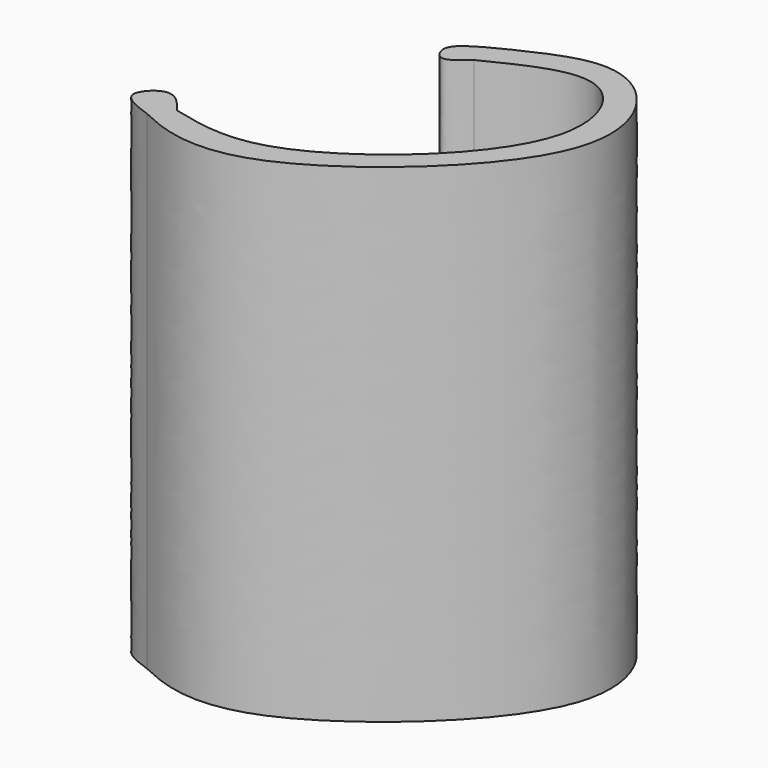
from build123d import *

# Parameters (mm, degrees)
F1_DEPTH = 25.2


with BuildPart() as f1:
    # F0 (on Top) → F1 (new body)
    with BuildSketch(Plane.XY):
        with BuildLine():
            add(Edge.make_bspline(
                [(0, 0), (1.5421028566, -0.3786825745), (5.3762259347, -1.3201992779), (15.1773132847, 7.0765604284), (12.1651266311, 13.7170357426), (8.489371849, 11.8670776834), (6.5824734047, 10.9073612839)],
                knots=[0, 0, 0, 0, 0.2245340352, 0.5582579156, 0.7708341977, 1, 1, 1, 1], degree=3))
            add(Edge.make_bspline(
                [(0, 0), (-0.4165032381, 0.5227421606), (-1.2110417865, 1.5199464063), (-2.8833956119, -0.2196400943), (-1.511461807, -0.7135961984), (-0.7794650155, -0.9771470213)],
                knots=[0, 0, 0, 0, 0.3394603115, 0.6475683222, 1, 1, 1, 1], degree=3))
            add(Edge.make_bspline(
                [(-0.7794650155, -0.9771470213), (-0.2062477454, -1.2435020529), (1.2323597979, -1.9119752089), (6.1317626251, -2.0783065223), (16.1566784652, 6.6012192987), (14.3367590252, 12.6378328913), (11.0053927108, 14.2967266663), (7.6621637089, 12.7973005091), (5.6196839047, 11.7901594649), (4.8333395, 10.9975101859), (5.4057710675, 9.8758670893), (6.1559309402, 10.5334552739), (6.5824734047, 10.9073612839)],
                knots=[0, 0, 0, 0, 0.0810918268, 0.2035167463, 0.4037701651, 0.5325363546, 0.6341529237, 0.7415063893, 0.8285455829, 0.8836619933, 0.9338499673, 1, 1, 1, 1], degree=3))
        make_face()
    extrude(amount=F1_DEPTH)


solid = f1.part
